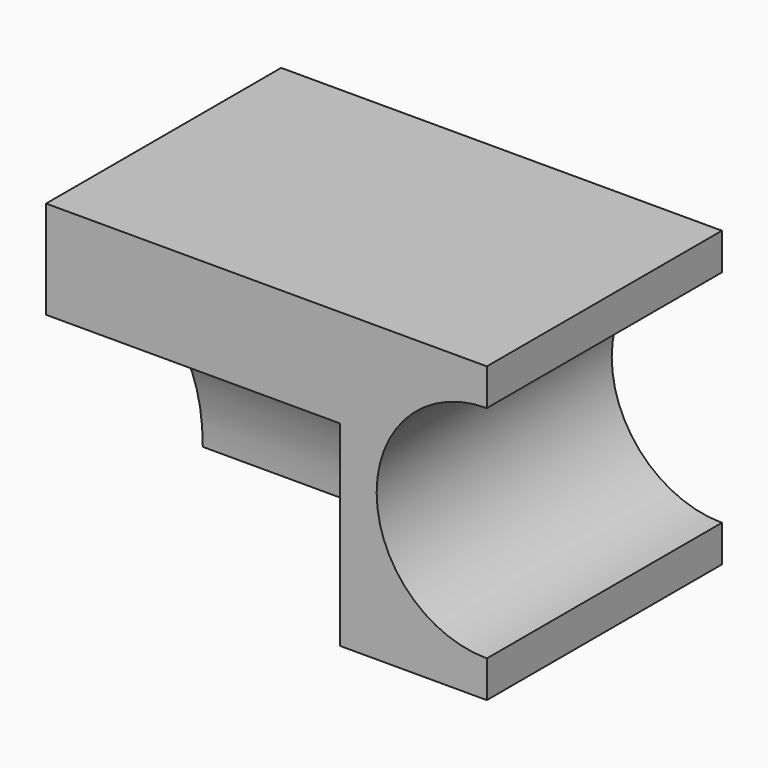
from build123d import *

# Parameters (mm, degrees)
F1_DEPTH = 60
F2_W     = 60
F2_H     = 60
F3_DEPTH = 60
F5_DEPTH = 60


with BuildPart() as f1:
    # F0 (on Front) → F1 (new body)
    with BuildSketch(Plane.XZ):
        with BuildLine():
            Line((0, 60), (0, 0))
            Line((0, 0), (30, 0))
            Line((30, 0), (30, 7.5))
            ThreePointArc((30, 7.5), (7.5, 30), (30, 52.5))
            Line((30, 52.5), (30, 60))
            Line((30, 60), (0, 60))
        make_face()
    extrude(amount=F1_DEPTH)

    # F2 (on face) → F3 (join)
    with BuildSketch(Plane.XZ.offset(60)):
        with Locations((-30, 30)):
            Rectangle(F2_W, F2_H)
    extrude(amount=-F3_DEPTH)

    # F4 (on face) → F5 (cut)
    with BuildSketch(Plane(origin=(-60, 0, 0), x_dir=(0, -1, 0), z_dir=(-1, 0, 0))):
        with BuildLine():
            Line((60, 0), (60, 40))
            ThreePointArc((60, 40), (31.715729, 28.284271), (20, 0))
            Line((20, 0), (60, 0))
        make_face()
    extrude(amount=-F5_DEPTH, mode=Mode.SUBTRACT)


solid = f1.part
